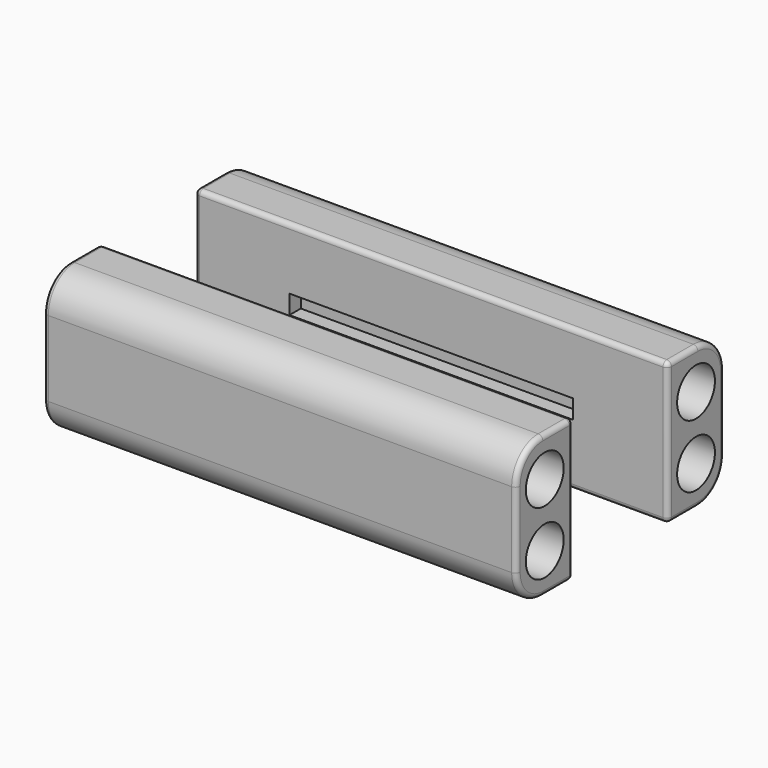
from build123d import *

# Parameters (mm, degrees)
F0_W      = 100
F0_H      = 30
F1_DEPTH  = 15
F2_R      = 5
F3_DEPTH  = 100.001
F5_R      = 7
F5_2_R    = 7
F6_R      = 1
F6_2_R    = 1
F8_W      = 60
F8_H      = 4
F9_DEPTH  = 3
F10_W     = 59.8
F10_H     = 3.8
F11_DEPTH = 2.5
F12_R     = 0.5
F13_R     = 1
F14_R     = 1


with BuildPart() as f1:
    # F0 (on Front) → F1 (new body)
    with BuildSketch(Plane.XZ):
        Rectangle(F0_W, F0_H)
    extrude(amount=-F1_DEPTH)

    # F2 (on face) → F3 (cut, through all)
    with BuildSketch(Plane.YZ.offset(50)):
        with Locations((7.5, 6.6666666667)):
            Circle(F2_R)
        with Locations((7.5, -6.6666666667)):
            Circle(F2_R)
    extrude(amount=-F3_DEPTH, mode=Mode.SUBTRACT)


with BuildPart() as f4_1:
    # F4: instance of F1
    add(f1.part.mirror(Plane.XZ))

    # F5
    f5_edges = [f4_1.edges().sort_by_distance(p)[0] for p in [
        (0, -15, 15),
        (0, -15, -15),
    ]]
    fillet(f5_edges, radius=F5_R)

    # F6#2
    f6_2_edges = [f4_1.edges().sort_by_distance(p)[0] for p in [
        (-50, -15, 0),
        (50, -15, 0),
    ]]
    fillet(f6_2_edges, radius=F6_2_R)


with BuildPart() as f1_1:
    add(f1.part)

    # F5#2
    f5_2_edges = [f1_1.edges().sort_by_distance(p)[0] for p in [
        (0, 15, 15),
        (0, 15, -15),
    ]]
    fillet(f5_2_edges, radius=F5_2_R)

    # F6
    f6_edges = [f1_1.edges().sort_by_distance(p)[0] for p in [
        (-50, 15, 0),
        (50, 15, 0),
    ]]
    fillet(f6_edges, radius=F6_R)

    # F8 (on face) → F9 (cut)
    with BuildSketch(Plane.XZ):
        Rectangle(F8_W, F8_H)
    extrude(amount=-F9_DEPTH, mode=Mode.SUBTRACT)

    # F14
    f14_edges = [f1_1.edges().sort_by_distance(p)[0] for p in [
        (0, 0, 15),
    ]]
    fillet(f14_edges, radius=F14_R)


with BuildPart() as f4_1_1:
    # F7: moved
    add(f4_1.part.moved(Location((0, -25, 0))))

    # F10 (on face) → F11 (join)
    with BuildSketch(Plane(origin=(0, -25, 0), x_dir=(-1, 0, 0), z_dir=(0, 1, 0))):
        Rectangle(F10_W, F10_H)
    extrude(amount=F11_DEPTH)

    # F12
    f12_edges = [f4_1_1.edges().sort_by_distance(p)[0] for p in [
        (0, -22.5, -1.9),
        (29.9, -22.5, 0),
        (0, -22.5, 1.9),
        (-29.9, -22.5, 0),
    ]]
    fillet(f12_edges, radius=F12_R)

    # F13
    f13_edges = [f4_1_1.edges().sort_by_distance(p)[0] for p in [
        (0, -25, -15),
    ]]
    fillet(f13_edges, radius=F13_R)


solid = Compound([f1_1.part, f4_1_1.part])
